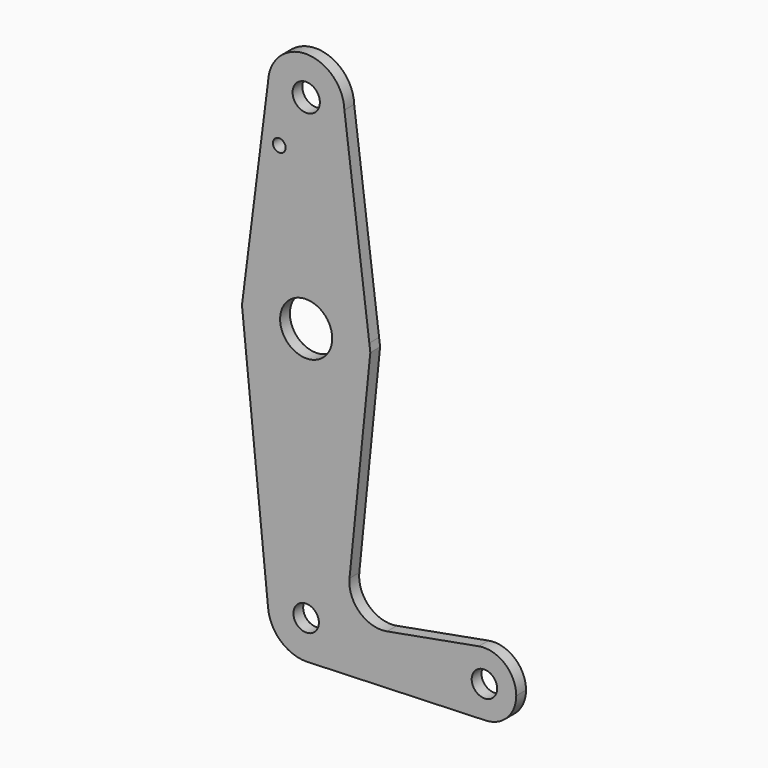
from build123d import *

# Parameters (mm, degrees)
F0_R     = 3.4005524975
F0_R_2   = 1.5875
F0_R_3   = 6.4959012334
F0_R_4   = 3.175
F1_DEPTH = 3.048


with BuildPart() as f1:
    # F0 (on Front) → F1 (new body)
    with BuildSketch(Plane.XZ):
        with BuildLine():
            ThreePointArc((-9.5033864398, 51.0962027961), (-0.1311124315, 41.2761517405), (9.5420068768, 50.8))
            ThreePointArc((9.5420068768, 50.8), (9.5408200646, 50.9503574546), (9.5372599237, 51.1006774402))
            ThreePointArc((9.5372599237, 51.1006774402), (0.0147684557, 60.324999737), (-9.5033864398, 51.0962027961))
        make_face()
        with Locations((0.0170068768, 50.8)):
            Circle(F0_R, mode=Mode.SUBTRACT)
        with BuildLine():
            ThreePointArc((9.5372599237, 51.1006774402), (9.5408200646, 50.9503574546), (9.5420068768, 50.8))
            ThreePointArc((9.5420068768, 50.8), (-0.1311124315, 41.2761517405), (-9.5033864398, 51.0962027961))
            Line((-9.5033864398, 51.0962027961), (-15.7481067025, 2.0031875317))
            ThreePointArc((-15.7481067025, 2.0031875317), (0.0054789096, 15.8749990545), (15.7494856637, 1.9923168248))
            Line((15.7494856637, 1.9923168248), (9.5372599237, 51.1006774402))
        make_face()
        with Locations((-6.7035360262, 38.0564779043)):
            Circle(F0_R_2, mode=Mode.SUBTRACT)
        with BuildLine():
            Line((16.0015144772, 0), (15.7494856637, 1.9923168248))
            ThreePointArc((15.7494856637, 1.9923168248), (15.843590343, 0.9981332801), (15.875, 0))
            ThreePointArc((15.875, 0), (-1.0036012899, -15.8432449154), (-15.7481067025, 2.0031875317))
            Line((-15.7481067025, 2.0031875317), (-16.0029157767, 0))
            Line((-16.0029157767, 0), (-9.4765487653, -64.459478024))
            ThreePointArc((-9.4765487653, -64.459478024), (-0.4803475617, -53.9871198544), (9.5250026602, -63.5))
            Line((9.5250026602, -63.5), (36.5125026602, -63.5))
            ThreePointArc((36.5125026602, -63.5), (38.3541011936, -58.4163112252), (43.0243493524, -55.6915802562))
            Line((43.0243493524, -55.6915802562), (20.1518079019, -59.8676255314))
            ThreePointArc((20.1518079019, -59.8676255314), (13.3306818795, -57.8878734728), (10.8140946621, -51.2460388464))
            Line((10.8140946621, -51.2460388464), (16.0015144772, 0))
        make_face()
        with BuildLine():
            ThreePointArc((15.875, 0), (15.843590343, 0.9981332801), (15.7494856637, 1.9923168248))
            ThreePointArc((15.7494856637, 1.9923168248), (0.0054789096, 15.8749990545), (-15.7481067025, 2.0031875317))
            ThreePointArc((-15.7481067025, 2.0031875317), (-1.0036012899, -15.8432449154), (15.875, 0))
        make_face()
        Circle(F0_R_3, mode=Mode.SUBTRACT)
        with BuildLine():
            ThreePointArc((9.5250026602, -63.5), (-0.4803475617, -53.9871198544), (-9.4765487653, -64.459478024))
            ThreePointArc((-9.4765487653, -64.459478024), (-6.3869605, -70.5662809589), (2.6602e-06, -73.025))
            Line((2.6602e-06, -73.025), (0.6773462081, -73.000885786))
            ThreePointArc((0.6773462081, -73.000885786), (6.9705593917, -69.9912990883), (9.5250026602, -63.5))
        make_face()
        with Locations((2.6602e-06, -63.5)):
            Circle(F0_R_4, mode=Mode.SUBTRACT)
        with BuildLine():
            Line((36.5125026602, -63.5), (9.5250026602, -63.5))
            ThreePointArc((9.5250026602, -63.5), (6.9705593917, -69.9912990883), (0.6773462081, -73.000885786))
            Line((0.6773462081, -73.000885786), (44.7324079348, -71.4324746146))
            ThreePointArc((44.7324079348, -71.4324746146), (38.9380921755, -69.2116327839), (36.5125026602, -63.5))
        make_face()
        with BuildLine():
            Line((0.6773462081, -73.000885786), (2.6602e-06, -73.025))
            ThreePointArc((2.6602e-06, -73.025), (0.3388889897, -73.0189695375), (0.6773462081, -73.000885786))
        make_face()
        with BuildLine():
            ThreePointArc((52.3875026602, -63.5), (49.5336914351, -57.4040985334), (43.0243493524, -55.6915802562))
            ThreePointArc((43.0243493524, -55.6915802562), (38.3541011936, -58.4163112252), (36.5125026602, -63.5))
            ThreePointArc((36.5125026602, -63.5), (38.9380921755, -69.2116327839), (44.7324079348, -71.4324746146))
            ThreePointArc((44.7324079348, -71.4324746146), (50.1616354442, -69.0119104847), (52.3875026602, -63.5))
        make_face()
        with BuildLine():
            ThreePointArc((47.6250026602, -63.5), (44.4500026602, -66.675), (41.2750026602, -63.5))
            ThreePointArc((41.2750026602, -63.5), (44.4500026602, -60.325), (47.6250026602, -63.5))
        make_face(mode=Mode.SUBTRACT)
    extrude(amount=F1_DEPTH)


solid = f1.part
